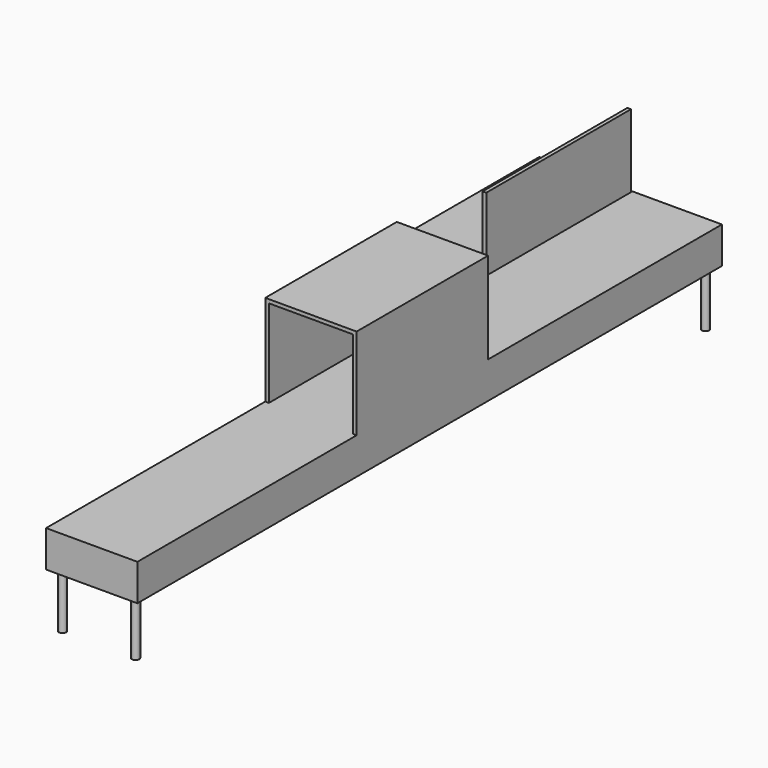
from build123d import *

# Parameters (mm, degrees)
PAD_DEPTH    = 400
SKETCH001_R  = 40
PAD001_DEPTH = 600
SKETCH002_W  = 1000
SKETCH002_H  = 1800
PAD002_DEPTH = 1000
SKETCH003_W  = 920
SKETCH003_H  = 960
POCKET_DEPTH = 1800
SKETCH004_W  = 40
SKETCH004_H  = 1980
PAD003_DEPTH = 800


with BuildPart() as part:
    # Sketch → Pad (new body)
    with BuildSketch(Plane.XY):
        Polygon((-1000, 8000), (1000, 8000), (1000, 0), (0, 0), (0, 5200), (-1000, 5200), align=None)
    extrude(amount=PAD_DEPTH)

    # Sketch001 (on Face7 of Pad) → Pad001 (join)
    with BuildSketch(Plane(origin=(0, 0, 0), x_dir=(1, 0, 0), z_dir=(0, 0, -1))):
        with Locations((100, -100)):
            Circle(SKETCH001_R)
        with Locations((900, -100)):
            Circle(SKETCH001_R)
        with Locations((-900, -5300)):
            Circle(SKETCH001_R)
        with Locations((-900, -7900)):
            Circle(SKETCH001_R)
        with Locations((900, -7900)):
            Circle(SKETCH001_R)
    extrude(amount=PAD001_DEPTH)

    # Sketch002 (on Face5 of Pad001) → Pad002 (join)
    with BuildSketch(Plane.XY.offset(400)):
        with Locations((500, 3900)):
            Rectangle(SKETCH002_W, SKETCH002_H)
    extrude(amount=PAD002_DEPTH)

    # Sketch003 (on Face17 of Pad002) → Pocket (cut)
    with BuildSketch(Plane.XZ.offset(-3000)):
        with Locations((500, 880)):
            Rectangle(SKETCH003_W, SKETCH003_H)
    extrude(amount=-POCKET_DEPTH, mode=Mode.SUBTRACT)

    # Sketch004 (on Face4 of Pocket) → Pad003 (join)
    with BuildSketch(Plane.XY.offset(400)):
        with Locations((0, 6990)):
            Rectangle(SKETCH004_W, SKETCH004_H)
    extrude(amount=PAD003_DEPTH)


solid = part.part
